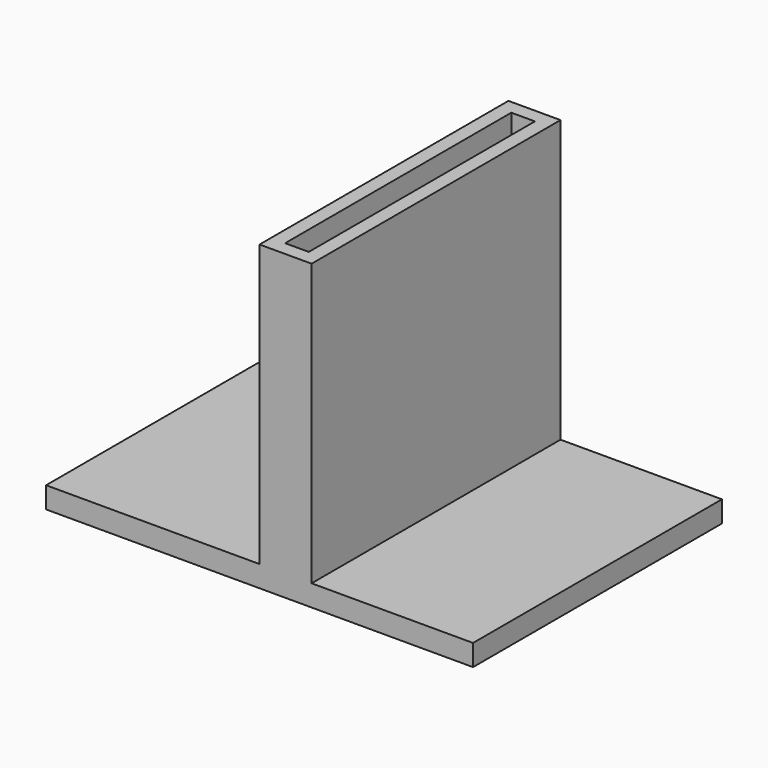
from build123d import *

# Parameters (mm, degrees)
F0_W     = 76.3216018677
F0_H     = 55.6097887456
F1_DEPTH = 3.81
F2_W     = 9.3032829463
F2_H     = 55.6097887456
F3_DEPTH = 50.292
F4_T     = -2.54


with BuildPart() as f1:
    # F0 (on Top) → F1 (new body)
    with BuildSketch(Plane.XY):
        with Locations((38.1608009338, -27.8048943728)):
            Rectangle(F0_W, F0_H)
    extrude(amount=F1_DEPTH)

    # F2 (on face) → F3 (join)
    with BuildSketch(Plane.XY.offset(3.81)):
        with Locations((42.812442407, -27.8048943728)):
            Rectangle(F2_W, F2_H)
    extrude(amount=F3_DEPTH)

    # F4
    f4_openings = [f1.faces().sort_by_distance(p)[0] for p in [
        (42.812442, -27.804894, 54.102),
    ]]
    offset(amount=F4_T, openings=f4_openings, kind=Kind.INTERSECTION)


solid = f1.part
